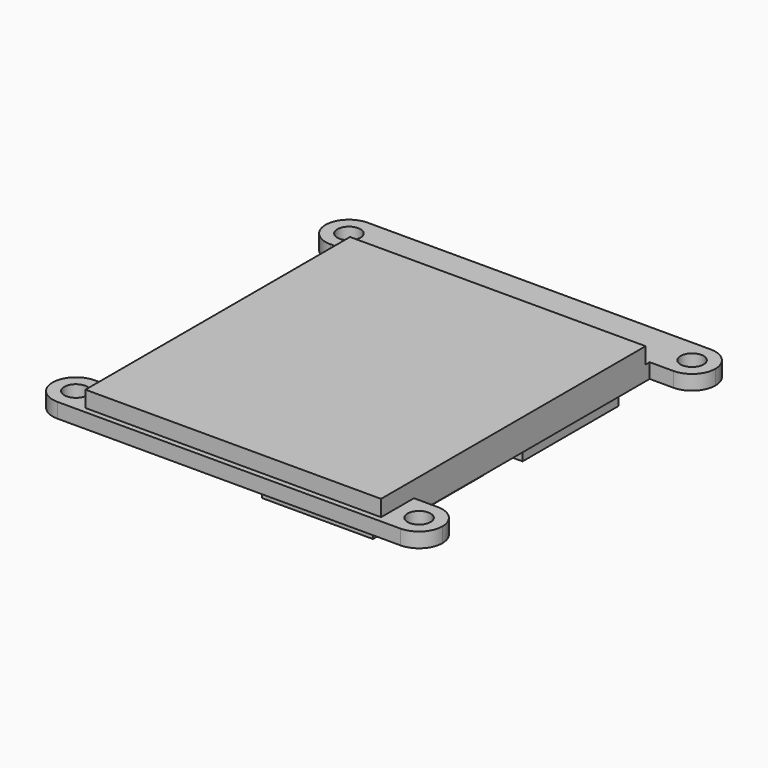
from build123d import *

# Parameters (mm, degrees)
SKETCH015_W             = 42
SKETCH015_H             = 32
PAD003_DEPTH            = 1.6
SKETCH016_W             = 35.8
SKETCH016_H             = 32
PAD004_DEPTH            = 1.75
SKETCH017_R             = 1.25
PAD005_DEPTH            = 1.6
SKETCH018_W             = 13
SKETCH018_H             = 5
SKETCH018_W_2           = 15
SKETCH018_H_2           = 12
PAD006_DEPTH            = 1.7
BODY002_PLACEMENT_ANGLE = 90


with BuildPart() as part:
    # Sketch015 → Pad003 (new body)
    with BuildSketch(Plane.XY):
        Rectangle(SKETCH015_W, SKETCH015_H)
    extrude(amount=PAD003_DEPTH)

    # Sketch016 (on Face6 of Pad003) → Pad004 (join)
    with BuildSketch(Plane.XY.offset(1.6)):
        with Locations((2.5, 0)):
            Rectangle(SKETCH016_W, SKETCH016_H)
    extrude(amount=PAD004_DEPTH)

    # Sketch017 (on Face3 of Pad004) → Pad005 (join)
    with BuildSketch(Plane.XY.offset(1.6)):
        with BuildLine():
            Line((-21, 16), (-15.95, 16))
            Line((-15.95, 16), (-15.95, 18.575))
            ThreePointArc((-15.95, 18.575), (-16.689555, 20.360445), (-18.475, 21.1))
            ThreePointArc((-18.475, 21.1), (-20.260445, 20.360445), (-21, 18.575))
            Line((-21, 18.575), (-21, 16))
        make_face()
        with Locations((-18.475, 18.575)):
            Circle(SKETCH017_R, mode=Mode.SUBTRACT)
        with BuildLine():
            Line((15.95, 16), (21, 16))
            Line((21, 16), (21, 18.575))
            ThreePointArc((21, 18.575), (20.260445, 20.360445), (18.475, 21.1))
            ThreePointArc((18.475, 21.1), (16.689555, 20.360445), (15.95, 18.575))
            Line((15.95, 18.575), (15.95, 16))
        make_face()
        with Locations((18.475, 18.575)):
            Circle(SKETCH017_R, mode=Mode.SUBTRACT)
        with BuildLine():
            Line((-21, -16), (-15.95, -16))
            Line((-15.95, -16), (-15.95, -18.575))
            ThreePointArc((-18.475, -21.1), (-16.689555, -20.360445), (-15.95, -18.575))
            ThreePointArc((-21, -18.575), (-20.260445, -20.360445), (-18.475, -21.1))
            Line((-21, -18.575), (-21, -16))
        make_face()
        with Locations((-18.475, -18.575)):
            Circle(SKETCH017_R, mode=Mode.SUBTRACT)
        with BuildLine():
            Line((15.95, -16), (21, -16))
            Line((21, -16), (21, -18.575))
            ThreePointArc((18.475, -21.1), (20.260445, -20.360445), (21, -18.575))
            ThreePointArc((15.95, -18.575), (16.689555, -20.360445), (18.475, -21.1))
            Line((15.95, -18.575), (15.95, -16))
        make_face()
        with Locations((18.475, -18.575)):
            Circle(SKETCH017_R, mode=Mode.SUBTRACT)
    extrude(amount=-PAD005_DEPTH)

    # Sketch018 (on Face15 of Pad005) → Pad006 (join)
    with BuildSketch(Plane(origin=(0, 0, 0), x_dir=(1, 0, 0), z_dir=(0, 0, -1))):
        with Locations((-6.5, -12.5)):
            Rectangle(SKETCH018_W, SKETCH018_H)
        with Locations((11.5, -8)):
            Rectangle(SKETCH018_W_2, SKETCH018_H_2)
    extrude(amount=PAD006_DEPTH)


with BuildPart() as part_1:
    # Body002 placement: moved
    add(part.part.moved(Location((0, 13, 21.75))).rotate(Axis((0, 13, 21.75), (0, 0, -1)), BODY002_PLACEMENT_ANGLE))


solid = part_1.part
